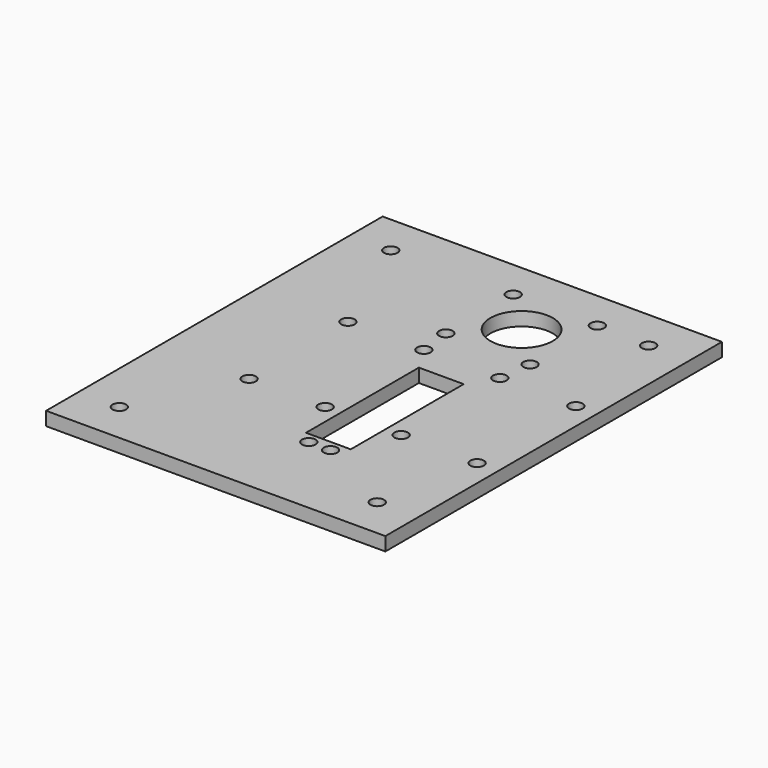
from build123d import *

# Parameters (mm, degrees)
SKETCH_W        = 125
SKETCH_H        = 155
PAD_DEPTH       = 5
SKETCH001_R     = 2.5
POCKET_DEPTH    = 5.001
SKETCH002_W     = 16.5
SKETCH002_H     = 52
POCKET001_DEPTH = 5.001
SKETCH003_R     = 11.5
SKETCH003_R_2   = 2.5
POCKET002_DEPTH = 5.001
SKETCH004_R     = 2.5
POCKET003_DEPTH = 5.001
SKETCH005_R     = 2.5
POCKET004_DEPTH = 5.001


with BuildPart() as part:
    # Sketch → Pad (new body)
    with BuildSketch(Plane.XY):
        Rectangle(SKETCH_W, SKETCH_H)
    extrude(amount=PAD_DEPTH)

    # Sketch001 (on Face6 of Pad) → Pocket (cut, through all)
    with BuildSketch(Plane.XY.offset(5)):
        with Locations((-47.5, 62.5)):
            Circle(SKETCH001_R)
        with Locations((47.5, 62.5)):
            Circle(SKETCH001_R)
        with Locations((-47.5, -62.5)):
            Circle(SKETCH001_R)
        with Locations((47.5, -62.5)):
            Circle(SKETCH001_R)
    extrude(amount=-POCKET_DEPTH, mode=Mode.SUBTRACT)

    # Sketch002 (on Face5 of Pocket) → Pocket001 (cut, through all)
    with BuildSketch(Plane.XY.offset(5)):
        with Locations((12.7, -15.5)):
            Rectangle(SKETCH002_W, SKETCH002_H)
    extrude(amount=-POCKET001_DEPTH, mode=Mode.SUBTRACT)

    # Sketch003 (on Face5 of Pocket001) → Pocket002 (cut, through all)
    with BuildSketch(Plane.XY.offset(5)):
        with Locations((12.7, 47.5)):
            Circle(SKETCH003_R)
        with Locations((-2.8, 63)):
            Circle(SKETCH003_R_2)
        with Locations((28.2, 63)):
            Circle(SKETCH003_R_2)
        with Locations((28.2, 32)):
            Circle(SKETCH003_R_2)
        with Locations((-2.8, 32)):
            Circle(SKETCH003_R_2)
    extrude(amount=-POCKET002_DEPTH, mode=Mode.SUBTRACT)

    # Sketch004 (on Face5 of Pocket002) → Pocket003 (cut, through all)
    with BuildSketch(Plane.XY.offset(5)):
        with Locations((8.7, -45.5)):
            Circle(SKETCH004_R)
        with Locations((16.7, -45.5)):
            Circle(SKETCH004_R)
    extrude(amount=-POCKET003_DEPTH, mode=Mode.SUBTRACT)

    # Sketch005 (on Face5 of Pocket003) → Pocket004 (cut, through all)
    with BuildSketch(Plane.XY.offset(5)):
        with Locations((26.7, 20)):
            Circle(SKETCH005_R)
        with Locations((54.7, 20)):
            Circle(SKETCH005_R)
        with Locations((26.7, -25.5)):
            Circle(SKETCH005_R)
        with Locations((54.7, -25.5)):
            Circle(SKETCH005_R)
        with Locations((-1.3, 20)):
            Circle(SKETCH005_R)
        with Locations((-29.3, 20)):
            Circle(SKETCH005_R)
        with Locations((-29.3, -25.5)):
            Circle(SKETCH005_R)
        with Locations((-1.3, -25.5)):
            Circle(SKETCH005_R)
    extrude(amount=-POCKET004_DEPTH, mode=Mode.SUBTRACT)


solid = part.part
